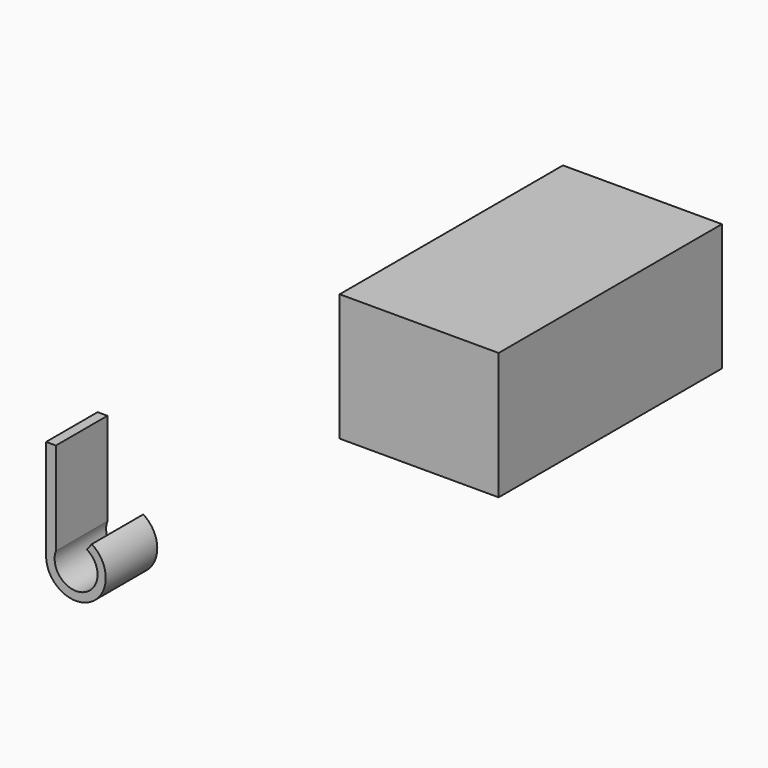
from build123d import *

# Parameters (mm, degrees)
F1_DEPTH = 15
F3_W     = 37.029528
F3_H     = 29.607106
F2_DEPTH = 65


with BuildPart() as f1:
    # F0 (on Front) → F1 (new body)
    with BuildSketch(Plane.XZ):
        with BuildLine():
            Line((-46.307503, -12.901538), (-48.598494, -12.901538))
            Line((-48.598494, -12.901538), (-48.598494, -36.302392))
            ThreePointArc((-48.598494, -36.302392), (-38.281571, -42.381986), (-37.961742, -30.411269))
            Line((-37.961742, -30.411269), (-39.107237, -31.88405))
            ThreePointArc((-39.107237, -31.88405), (-39.900538, -40.91198), (-46.307503, -34.502328))
            Line((-46.307503, -34.502328), (-46.307503, -12.901538))
        make_face()
    extrude(amount=F1_DEPTH)


with BuildPart() as f2:
    # F3 (on Front) → F2 (new body)
    with BuildSketch(Plane.XZ):
        with Locations((26.300922, 14.803553)):
            Rectangle(F3_W, F3_H)
    extrude(amount=-F2_DEPTH)


solid = Compound([f1.part, f2.part])
